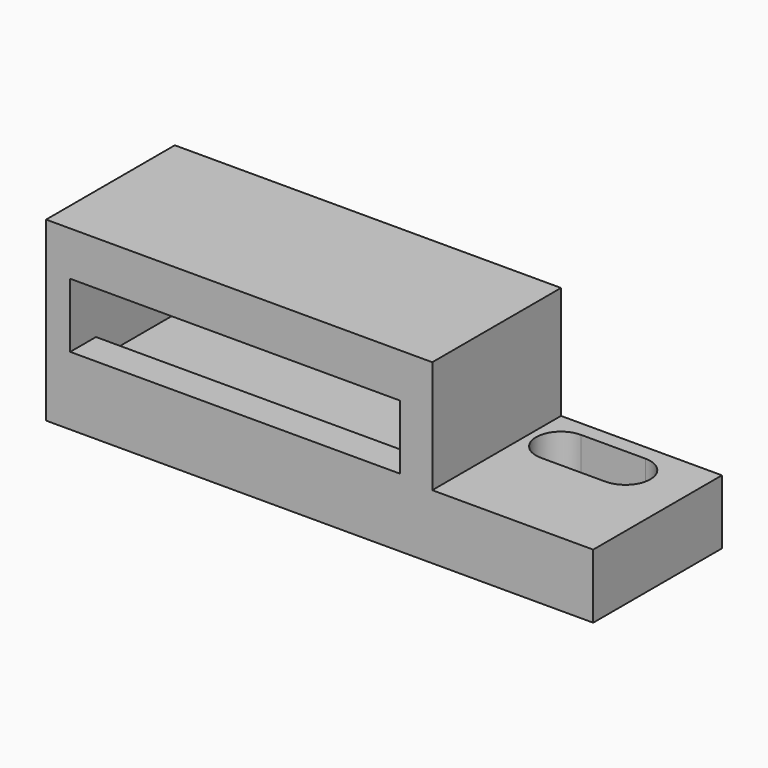
from build123d import *

# Parameters (mm, degrees)
PAD_DEPTH         = 10
SKETCH001_W       = 20.5
SKETCH001_H       = 6.5
POCKET_DEPTH      = 8
SKETCH002_W       = 20.5
SKETCH002_H       = 4
POCKET001_DEPTH   = 5
POCKET002_DEPTH   = 5
POCKET002_FACE1_W = 10
POCKET002_FACE1_H = 34
PAD001_DEPTH      = 1
PAD001_FACE3_W    = 10
PAD001_FACE3_H    = 10
PAD002_DEPTH      = 1


with BuildPart() as part:
    # Sketch → Pad (new body)
    with BuildSketch(Plane.XZ):
        Polygon((0, 10), (24, 10), (24, 2), (34, 2), (34, 0), (0, 0), align=None)
    extrude(amount=PAD_DEPTH)

    # Sketch001 (on Face7 of Pad) → Pocket (cut)
    with BuildSketch(Plane(origin=(0, 0, 0), x_dir=(1, 0, 0), z_dir=(0, 1, 0))):
        with Locations((11.75, -5.25)):
            Rectangle(SKETCH001_W, SKETCH001_H)
    extrude(amount=-POCKET_DEPTH, mode=Mode.SUBTRACT)

    # Sketch002 (on Face13 of Pocket) → Pocket001 (cut)
    with BuildSketch(Plane(origin=(0, -8, 0), x_dir=(1, 0, 0), z_dir=(0, 1, 0))):
        with Locations((11.75, -5.25)):
            Rectangle(SKETCH002_W, SKETCH002_H)
    extrude(amount=-POCKET001_DEPTH, mode=Mode.SUBTRACT)

    # Sketch003 (on Face6 of Pocket001) → Pocket002 (cut)
    with BuildSketch(Plane(origin=(0, 0, 2), x_dir=(-1, 0, 0), z_dir=(0, 0, 1))):
        with BuildLine():
            ThreePointArc((-30, 4.05), (-31.55, 2.5), (-30, 0.95))
            Line((-30, 0.95), (-26, 0.95))
            ThreePointArc((-26, 0.95), (-24.45, 2.5), (-26, 4.05))
            Line((-26, 4.05), (-30, 4.05))
        make_face()
    extrude(amount=-POCKET002_DEPTH, mode=Mode.SUBTRACT)

    # Pocket002 Face1 → Pad001 (add)
    with BuildSketch(Plane(origin=(16.314411, -5.155816, 0), x_dir=(0, -1, 0), z_dir=(0, 0, -1))):
        with Locations((-0.155816, -0.685589)):
            Rectangle(POCKET002_FACE1_W, POCKET002_FACE1_H)
        with BuildLine():
            Line((-1.105816, -9.685589), (-1.105816, -13.685589))
            ThreePointArc((-1.105816, -13.685589), (-2.655816, -15.235589), (-4.205816, -13.685589))
            Line((-4.205816, -13.685589), (-4.205816, -9.685589))
            ThreePointArc((-4.205816, -9.685589), (-2.655816, -8.135589), (-1.105816, -9.685589))
        make_face(mode=Mode.SUBTRACT)
    extrude(amount=PAD001_DEPTH)

    # Pad001 Face3 → Pad002 (add)
    with BuildSketch(Plane(origin=(29.249183, -5.622957, 2), x_dir=(0, 1, 0), z_dir=(0, 0, 1))):
        with Locations((0.622957, 0.249183)):
            Rectangle(PAD001_FACE3_W, PAD001_FACE3_H)
        with BuildLine():
            ThreePointArc((4.672957, -0.750817), (3.122957, -2.300817), (1.572957, -0.750817))
            Line((1.572957, -0.750817), (1.572957, 3.249183))
            ThreePointArc((1.572957, 3.249183), (3.122957, 4.799183), (4.672957, 3.249183))
            Line((4.672957, 3.249183), (4.672957, -0.750817))
        make_face(mode=Mode.SUBTRACT)
    extrude(amount=PAD002_DEPTH)


solid = part.part
